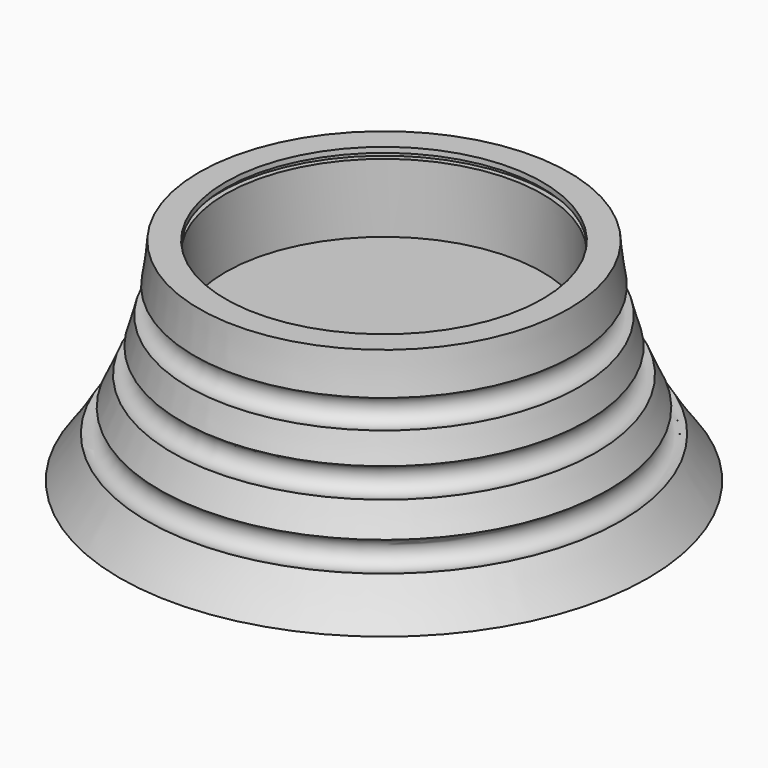
from build123d import *


with BuildPart() as f1:
    # F0 (on Front) → F1 (revolve)
    with BuildSketch(Plane.XZ):
        with BuildLine():
            Line((0, 13), (0, 0))
            Line((0, 0), (-30, 0))
            Line((-30, 0), (-30, -25))
            Line((-30, -25), (20, -25))
            ThreePointArc((20, -25), (17.290105, -21.174364), (14.824525, -17.186892))
            ThreePointArc((14.824525, -17.186892), (11.406341, -16.174789), (12.475273, -12.773948))
            ThreePointArc((12.475273, -12.773948), (11.220299, -10.080664), (10.07299, -7.339784))
            ThreePointArc((10.07299, -7.339784), (6.83828, -5.841456), (8.390312, -2.632168))
            ThreePointArc((8.390312, -2.632168), (7.613844, -0.048715), (6.930786, 2.560991))
            ThreePointArc((6.930786, 2.560991), (3.934119, 4.491877), (5.914682, 7.455946))
            ThreePointArc((5.914682, 7.455946), (5.36173, 11.216381), (5, 15))
            Line((5, 15), (0, 15))
            Line((0, 15), (0, 14))
            Line((0, 14), (1, 14))
            Line((1, 14), (1, 13))
            Line((1, 13), (0, 13))
        make_face()
    revolve(axis=Axis((-30, 0, -12.5), (0, 0, -1)))


solid = f1.part
